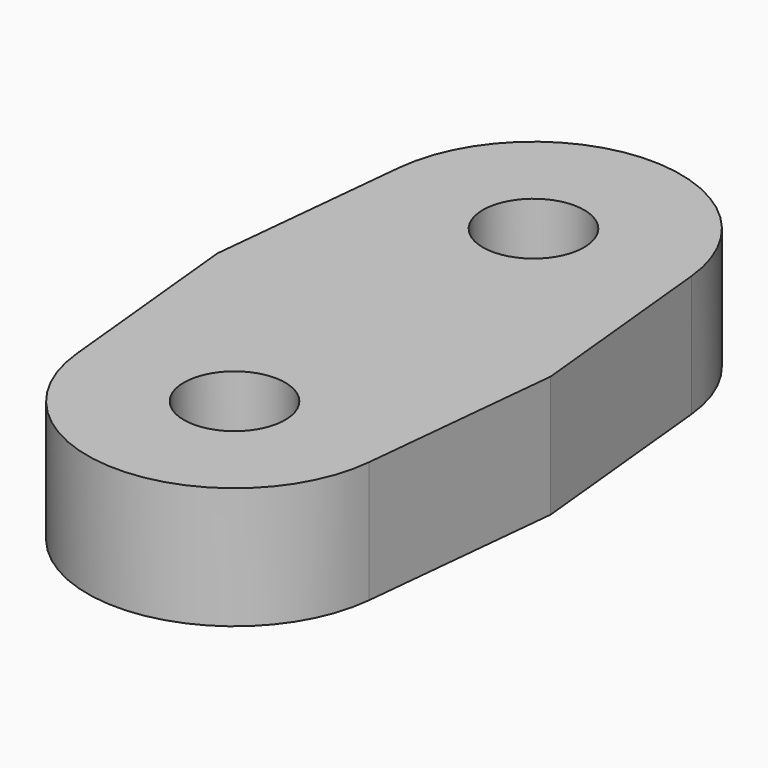
from build123d import *

# Parameters (mm, degrees)
F1_DEPTH = 3
F2_D     = 2.5
F3_D     = 2.5


with BuildPart() as f1:
    # F0 (on Top) → F1 (new body)
    with BuildSketch(Plane.XY):
        with BuildLine():
            Line((-3.613195, 4.974902), (-4.113541, 0))
            Line((-4.113541, 0), (-3.613195, -4.974902))
            ThreePointArc((-3.613195, -4.974902), (0, -8.242932), (3.613195, -4.974902))
            Line((3.613195, -4.974902), (4.113541, 0))
            Line((4.113541, 0), (3.613195, 4.974902))
            ThreePointArc((3.613195, 4.974902), (0, 8.242932), (-3.613195, 4.974902))
        make_face()
    extrude(amount=F1_DEPTH)

    # F2 (through all)
    with Locations(Plane(origin=(0, 0, 0), x_dir=(1, 0, 0), z_dir=(0, 0, -1))):
        with Locations((0, 4.611509)):
            Hole(F2_D / 2)

    # F3 (through all)
    with Locations(Plane(origin=(0, 0, 0), x_dir=(1, 0, 0), z_dir=(0, 0, -1))):
        with Locations((0, -4.611509)):
            Hole(F3_D / 2)


solid = f1.part
